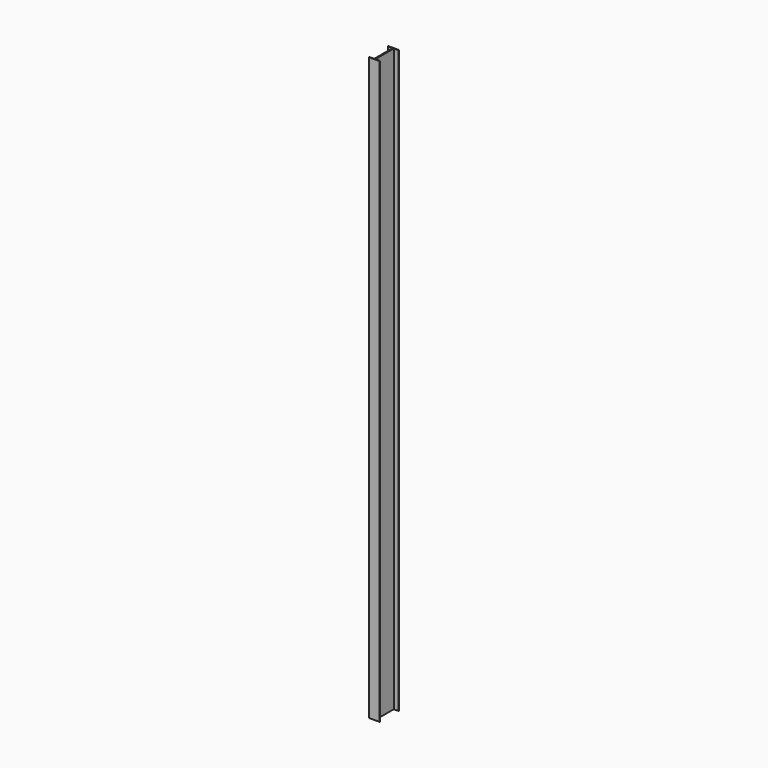
from build123d import *

# Parameters (mm, degrees)
F0_W     = 88.9
F0_H     = 203.2
F1_DEPTH = 4876.8
F2_W     = 39.6875
F2_H     = 193.04
F3_DEPTH = 4876.801


with BuildPart() as f1:
    # F0 (on Top) → F1 (new body)
    with BuildSketch(Plane.XY):
        Rectangle(F0_W, F0_H)
    extrude(amount=F1_DEPTH)

    # F2 (on Top) → F3 (cut, through all)
    with BuildSketch(Plane.XY):
        with Locations((-24.60625, 0)):
            Rectangle(F2_W, F2_H)
        with Locations((24.60625, 0)):
            Rectangle(F2_W, F2_H)
    extrude(amount=F3_DEPTH, mode=Mode.SUBTRACT)


solid = f1.part
